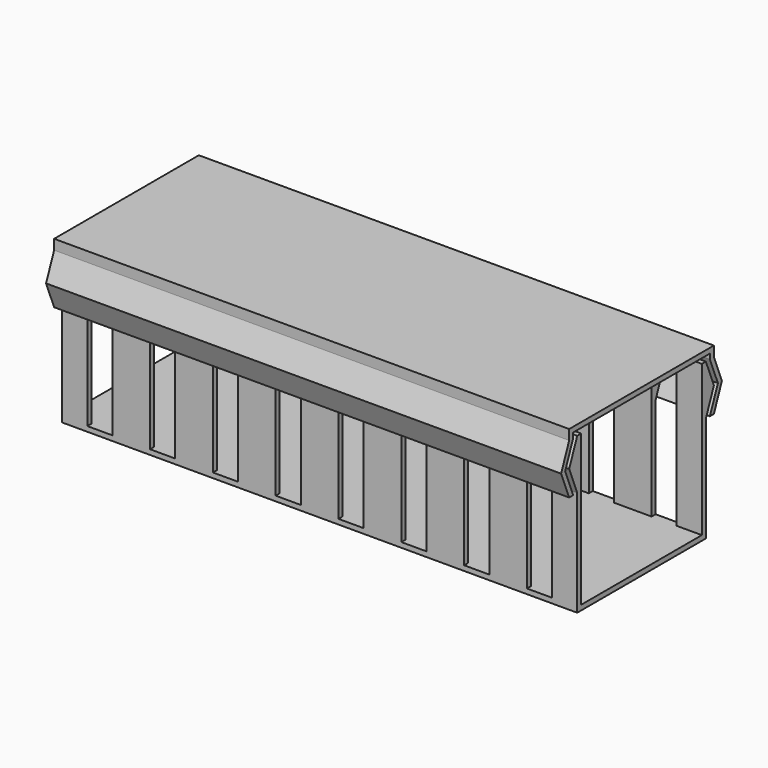
from build123d import *

# Parameters (mm, degrees)
F1_DEPTH = 102.5
F2_W     = 5
F2_H     = 30
F3_DEPTH = 34.001
F4_DEPTH = 2.001
F6_DEPTH = 102.5


with BuildPart() as f1:
    # F0 (on Right) → F1 (new body)
    with BuildSketch(Plane.YZ):
        Polygon((-31, 31), (-32, 31), (-32, 26), (-32, 21), (-32, 0), (0, 0), (0, 21), (0, 26), (0, 31), (-1, 31), (-1, 1), (-31, 1), align=None)
        Polygon((-32, 26), (-32, 31), (-34, 26), align=None)
        Polygon((-32, 21), (-32, 26), (-34, 26), align=None)
        Polygon((0, 26), (0, 21), (2, 26), align=None)
        Polygon((2, 26), (0, 31), (0, 26), align=None)
    extrude(amount=F1_DEPTH)

    # F2 (on face) → F3 (cut, through all)
    with BuildSketch(Plane(origin=(0, 0, 0), x_dir=(-1, 0, 0), z_dir=(0, 1, 0))):
        with Locations((-95, 16)):
            Rectangle(F2_W, F2_H)
        with Locations((-82.5, 16)):
            Rectangle(F2_W, F2_H)
        with Locations((-70, 16)):
            Rectangle(F2_W, F2_H)
        with Locations((-57.5, 16)):
            Rectangle(F2_W, F2_H)
        with Locations((-45, 16)):
            Rectangle(F2_W, F2_H)
        with Locations((-32.5, 16)):
            Rectangle(F2_W, F2_H)
        with Locations((-20, 16)):
            Rectangle(F2_W, F2_H)
        with Locations((-7.5, 16)):
            Rectangle(F2_W, F2_H)
    extrude(amount=-F3_DEPTH, mode=Mode.SUBTRACT)

    # F2 (on face) → F4 (cut, through all)
    with BuildSketch(Plane(origin=(0, 0, 0), x_dir=(-1, 0, 0), z_dir=(0, 1, 0))):
        with Locations((-95, 16)):
            Rectangle(F2_W, F2_H)
        with Locations((-82.5, 16)):
            Rectangle(F2_W, F2_H)
        with Locations((-70, 16)):
            Rectangle(F2_W, F2_H)
        with Locations((-57.5, 16)):
            Rectangle(F2_W, F2_H)
        with Locations((-45, 16)):
            Rectangle(F2_W, F2_H)
        with Locations((-32.5, 16)):
            Rectangle(F2_W, F2_H)
        with Locations((-20, 16)):
            Rectangle(F2_W, F2_H)
        with Locations((-7.5, 16)):
            Rectangle(F2_W, F2_H)
    extrude(amount=F4_DEPTH, mode=Mode.SUBTRACT)


with BuildPart() as f6:
    # F5 (on face) → F6 (new body, through all)
    with BuildSketch(Plane.YZ.offset(102.5)):
        Polygon((-34, 21), (-33, 21), (-35, 26), (-33, 31), (-33, 32), (-34, 32), (-34, 31), (-36, 26), align=None)
        Polygon((-34, 32), (-33, 32), (1, 32), (2, 32), (2, 33), (-34, 33), align=None)
        Polygon((2, 32), (1, 32), (1, 31), (3, 26), (1, 21), (2, 21), (4, 26), (2, 31), align=None)
    extrude(amount=-F6_DEPTH)


solid = Compound([f1.part, f6.part])
